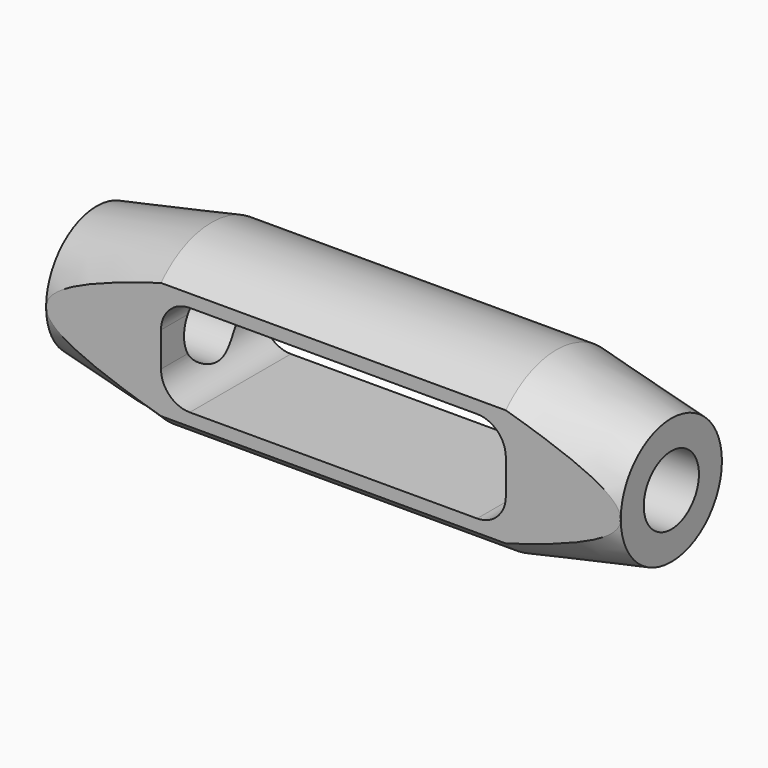
from build123d import *

# Parameters (mm, degrees)
SKETCH035_R      = 6
EXTRUDE030_DEPTH = 150
EXTRUDE029_DEPTH = 30
SKETCH033_W      = 15
SKETCH033_H      = 79.05159
SKETCH033_H_2    = 80
EXTRUDE028_DEPTH = 150


with BuildPart() as extrude031:
    # Sketch035 → Extrude030 (new body, symmetric)
    with BuildSketch(Plane.YZ):
        Circle(SKETCH035_R)
    extrude(amount=EXTRUDE030_DEPTH, both=True)


with BuildPart() as extrude030:
    # Sketch034 → Extrude029 (new body, symmetric)
    with BuildSketch(Plane.XZ):
        with BuildLine():
            Line((30, 3), (30, -3))
            ThreePointArc((25, -8), (28.535534, -6.535534), (30, -3))
            Line((25, -8), (-25, -8))
            ThreePointArc((-30, -3), (-28.535534, -6.535534), (-25, -8))
            Line((-30, -3), (-30, 3))
            ThreePointArc((-25, 8), (-28.535534, 6.535534), (-30, 3))
            Line((-25, 8), (25, 8))
            ThreePointArc((30, 3), (28.535534, 6.535534), (25, 8))
        make_face()
    extrude(amount=EXTRUDE029_DEPTH, both=True)


with BuildPart() as extrude029:
    # Sketch033 → Extrude028 (new body, symmetric)
    with BuildSketch(Plane.YZ):
        with Locations((-18.5, 0.159191)):
            Rectangle(SKETCH033_W, SKETCH033_H)
        with Locations((18.5, -0.315014)):
            Rectangle(SKETCH033_W, SKETCH033_H_2)
    extrude(amount=EXTRUDE028_DEPTH, both=True)


with BuildPart() as obj1:
    # Sketch032 → Revolve005 (revolve)
    with BuildSketch(Plane.XZ):
        Polygon((-50, 0), (-50, 11), (-30, 15), (30, 15), (50, 11), (50, 0), align=None)
    revolve(axis=Axis((-50, 0, 0), (-1, 0, 0)))

    # Cut012: cut Extrude029
    add(extrude029.part, mode=Mode.SUBTRACT)

    # Cut013: cut Extrude030
    add(extrude030.part, mode=Mode.SUBTRACT)

    # Cut014: cut Extrude031
    add(extrude031.part, mode=Mode.SUBTRACT)


with BuildPart() as obj1_1:
    # Cut014 placement: moved
    add(obj1.part.moved(Location((-530, 0, 0))))


solid = obj1_1.part
